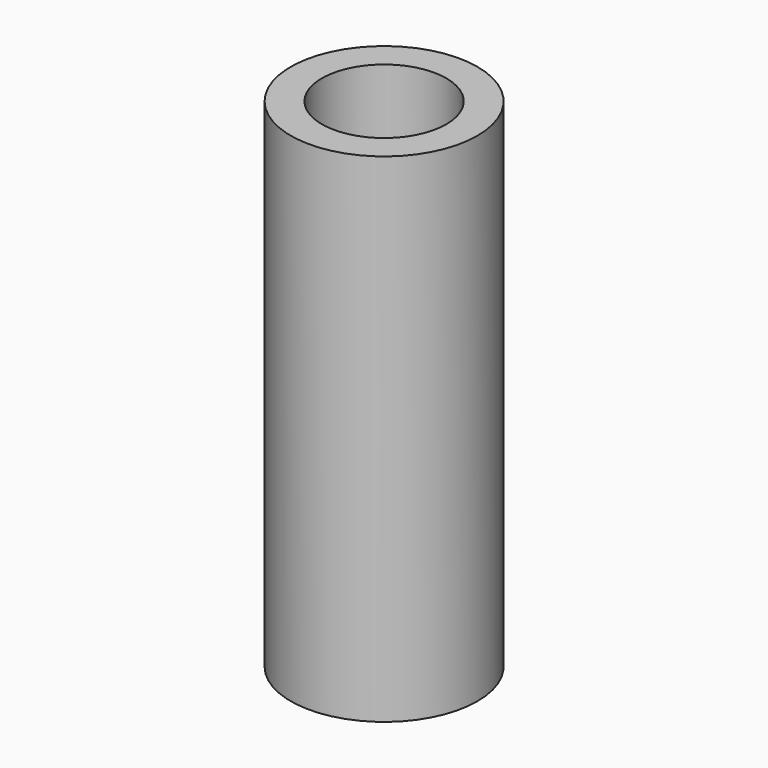
from build123d import *

# Parameters (mm, degrees)
F0_R     = 9.525
F0_R_2   = 1.5875
F1_DEPTH = 50.8
F2_R     = 6.35
F3_DEPTH = 25.4
F4_R     = 3.175
F5_DEPTH = 9.526


with BuildPart() as f1:
    # F0 (on Top) → F1 (new body)
    with BuildSketch(Plane.XY):
        Circle(F0_R)
        Circle(F0_R_2, mode=Mode.SUBTRACT)
    extrude(amount=F1_DEPTH)

    # F2 (on face) → F3 (cut)
    with BuildSketch(Plane.XY.offset(50.8)):
        Circle(F2_R)
    extrude(amount=-F3_DEPTH, mode=Mode.SUBTRACT)

    # F4 (on Right) → F5 (cut, through all)
    with BuildSketch(Plane.YZ):
        with Locations((0, 12.7)):
            Circle(F4_R)
        with Locations((0, 38.1)):
            Circle(F4_R)
    extrude(amount=-F5_DEPTH, mode=Mode.SUBTRACT)


solid = f1.part
